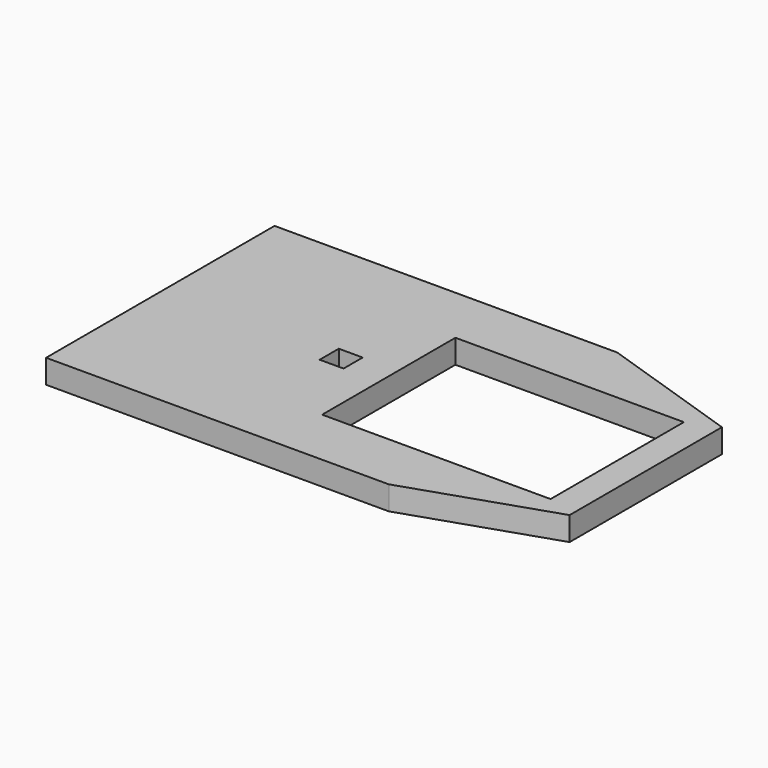
from build123d import *

# Parameters (mm, degrees)
F0_W     = 102
F0_H     = 60
F0_W_2   = 48
F0_H_2   = 35
F1_DEPTH = 5
F3_DEPTH = 4
F4_SIZE2 = 30
F4_SIZE  = 10


with BuildPart() as f1:
    # F0 (on Top) → F1 (new body)
    with BuildSketch(Plane.XY):
        with Locations((-63.9077364467, 31.1956779382)):
            Rectangle(F0_W, F0_H)
        with Locations((-42.9077364467, 31.1956779382)):
            Rectangle(F0_W_2, F0_H_2, mode=Mode.SUBTRACT)
    extrude(amount=F1_DEPTH)

    # F2 (on face) → F3 (cut)
    with BuildSketch(Plane.XY.offset(5)):
        Polygon((-74.3977364467, 33.7056779382), (-79.4177364467, 33.7056779382), (-79.4177364467, 28.6856779382), (-74.3977364467, 28.6856779382), (-74.3977364467, 31.1956779382), align=None)
    extrude(amount=-F3_DEPTH, mode=Mode.SUBTRACT)

    # F4
    f4_edges = [f1.edges().sort_by_distance(p)[0] for p in [
        (-12.907736, 1.195678, 2.5),
        (-12.907736, 61.195678, 2.5),
    ]]
    f4_side = f1.faces().sort_by_distance((-12.907736, 31.195678, 2.5))[0]
    chamfer(f4_edges, length=F4_SIZE, length2=F4_SIZE2, reference=f4_side)


solid = f1.part
